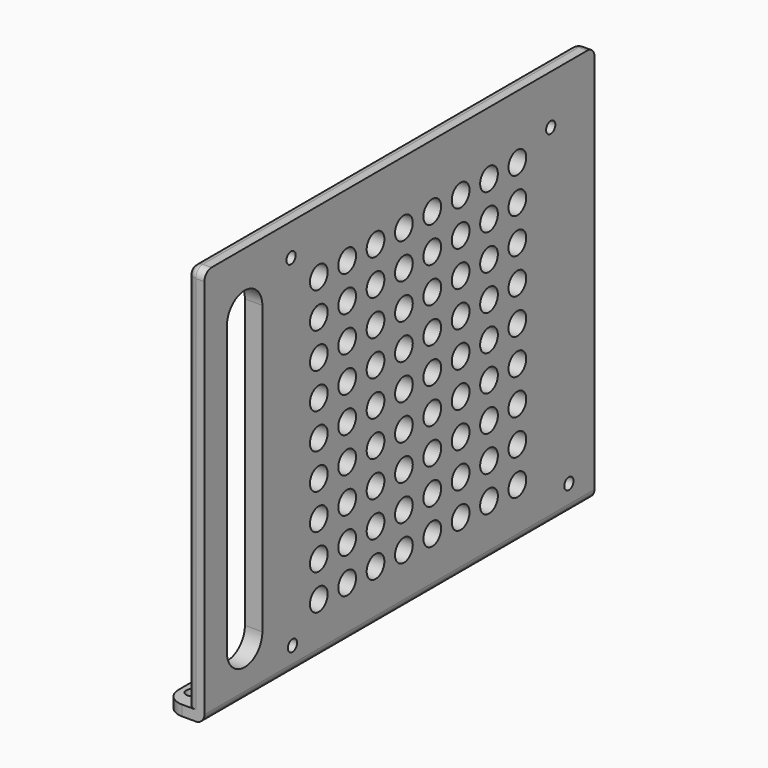
from build123d import *

# Parameters (mm, degrees)
F0_W     = 6.5
F0_H     = 139.7
F0_R     = 1.75
F1_DEPTH = 3
F0_W_2   = 5
F2_DEPTH = 114.3
F3_R     = 1.65
F3_R_2   = 3.175
F4_DEPTH = 25.4
F5_R     = 2.54
F6_R     = 5.08


with BuildPart() as f1:
    # F0 (on Top) → F1 (new body)
    with BuildSketch(Plane.XY):
        with Locations((3.25, 69.85)):
            Rectangle(F0_W, F0_H)
        with Locations((3.25, 5.9583112597)):
            Circle(F0_R, mode=Mode.SUBTRACT)
        with Locations((3.25, 82.1583112597)):
            Circle(F0_R, mode=Mode.SUBTRACT)
    extrude(amount=F1_DEPTH)

    # F0 (on Top) → F2 (join)
    with BuildSketch(Plane.XY):
        with Locations((9, 69.85)):
            Rectangle(F0_W_2, F0_H)
    extrude(amount=F2_DEPTH)

    # F3 (on face) → F4 (cut)
    with BuildSketch(Plane.YZ.offset(11.5)):
        with Locations((31.0318387245, 105.1548512529)):
            Circle(F3_R)
        with Locations((31.5296787245, 7.1532112529)):
            Circle(F3_R)
        with Locations((124.0288587245, 100.2551912529)):
            Circle(F3_R)
        with Locations((130.5287187245, 7.7551912529)):
            Circle(F3_R)
        with Locations((40.965847671, 96.2724089622)):
            Circle(F3_R_2)
        with Locations((40.965847671, 86.1124089622)):
            Circle(F3_R_2)
        with Locations((40.965847671, 75.9524089622)):
            Circle(F3_R_2)
        with Locations((40.965847671, 65.7924089622)):
            Circle(F3_R_2)
        with Locations((40.965847671, 55.6324089622)):
            Circle(F3_R_2)
        with Locations((40.965847671, 45.4724089622)):
            Circle(F3_R_2)
        with Locations((40.965847671, 35.3124089622)):
            Circle(F3_R_2)
        with Locations((40.965847671, 25.1524089622)):
            Circle(F3_R_2)
        with Locations((40.965847671, 14.9924089622)):
            Circle(F3_R_2)
        with Locations((51.125847671, 96.2724089622)):
            Circle(F3_R_2)
        with Locations((51.125847671, 86.1124089622)):
            Circle(F3_R_2)
        with Locations((51.125847671, 75.9524089622)):
            Circle(F3_R_2)
        with Locations((51.125847671, 65.7924089622)):
            Circle(F3_R_2)
        with Locations((51.125847671, 55.6324089622)):
            Circle(F3_R_2)
        with Locations((51.125847671, 45.4724089622)):
            Circle(F3_R_2)
        with Locations((51.125847671, 35.3124089622)):
            Circle(F3_R_2)
        with Locations((51.125847671, 25.1524089622)):
            Circle(F3_R_2)
        with Locations((51.125847671, 14.9924089622)):
            Circle(F3_R_2)
        with Locations((61.285847671, 96.2724089622)):
            Circle(F3_R_2)
        with Locations((61.285847671, 86.1124089622)):
            Circle(F3_R_2)
        with Locations((61.285847671, 75.9524089622)):
            Circle(F3_R_2)
        with Locations((61.285847671, 65.7924089622)):
            Circle(F3_R_2)
        with Locations((61.285847671, 55.6324089622)):
            Circle(F3_R_2)
        with Locations((61.285847671, 45.4724089622)):
            Circle(F3_R_2)
        with Locations((61.285847671, 35.3124089622)):
            Circle(F3_R_2)
        with Locations((61.285847671, 25.1524089622)):
            Circle(F3_R_2)
        with Locations((61.285847671, 14.9924089622)):
            Circle(F3_R_2)
        with Locations((71.445847671, 96.2724089622)):
            Circle(F3_R_2)
        with Locations((71.445847671, 86.1124089622)):
            Circle(F3_R_2)
        with Locations((71.445847671, 75.9524089622)):
            Circle(F3_R_2)
        with Locations((71.445847671, 65.7924089622)):
            Circle(F3_R_2)
        with Locations((71.445847671, 55.6324089622)):
            Circle(F3_R_2)
        with Locations((71.445847671, 45.4724089622)):
            Circle(F3_R_2)
        with Locations((71.445847671, 35.3124089622)):
            Circle(F3_R_2)
        with Locations((71.445847671, 25.1524089622)):
            Circle(F3_R_2)
        with Locations((71.445847671, 14.9924089622)):
            Circle(F3_R_2)
        with Locations((81.605847671, 96.2724089622)):
            Circle(F3_R_2)
        with Locations((81.605847671, 86.1124089622)):
            Circle(F3_R_2)
        with Locations((81.605847671, 75.9524089622)):
            Circle(F3_R_2)
        with Locations((81.605847671, 65.7924089622)):
            Circle(F3_R_2)
        with Locations((81.605847671, 55.6324089622)):
            Circle(F3_R_2)
        with Locations((81.605847671, 45.4724089622)):
            Circle(F3_R_2)
        with Locations((81.605847671, 35.3124089622)):
            Circle(F3_R_2)
        with Locations((81.605847671, 25.1524089622)):
            Circle(F3_R_2)
        with Locations((81.605847671, 14.9924089622)):
            Circle(F3_R_2)
        with Locations((91.765847671, 96.2724089622)):
            Circle(F3_R_2)
        with Locations((91.765847671, 86.1124089622)):
            Circle(F3_R_2)
        with Locations((91.765847671, 75.9524089622)):
            Circle(F3_R_2)
        with Locations((91.765847671, 65.7924089622)):
            Circle(F3_R_2)
        with Locations((91.765847671, 55.6324089622)):
            Circle(F3_R_2)
        with Locations((91.765847671, 45.4724089622)):
            Circle(F3_R_2)
        with Locations((91.765847671, 35.3124089622)):
            Circle(F3_R_2)
        with Locations((91.765847671, 25.1524089622)):
            Circle(F3_R_2)
        with Locations((91.765847671, 14.9924089622)):
            Circle(F3_R_2)
        with Locations((101.925847671, 96.2724089622)):
            Circle(F3_R_2)
        with Locations((101.925847671, 86.1124089622)):
            Circle(F3_R_2)
        with Locations((101.925847671, 75.9524089622)):
            Circle(F3_R_2)
        with Locations((101.925847671, 65.7924089622)):
            Circle(F3_R_2)
        with Locations((101.925847671, 55.6324089622)):
            Circle(F3_R_2)
        with Locations((101.925847671, 45.4724089622)):
            Circle(F3_R_2)
        with Locations((101.925847671, 35.3124089622)):
            Circle(F3_R_2)
        with Locations((101.925847671, 25.1524089622)):
            Circle(F3_R_2)
        with Locations((101.925847671, 14.9924089622)):
            Circle(F3_R_2)
        with Locations((112.085847671, 96.2724089622)):
            Circle(F3_R_2)
        with Locations((112.085847671, 86.1124089622)):
            Circle(F3_R_2)
        with Locations((112.085847671, 75.9524089622)):
            Circle(F3_R_2)
        with Locations((112.085847671, 65.7924089622)):
            Circle(F3_R_2)
        with Locations((112.085847671, 55.6324089622)):
            Circle(F3_R_2)
        with Locations((112.085847671, 45.4724089622)):
            Circle(F3_R_2)
        with Locations((112.085847671, 35.3124089622)):
            Circle(F3_R_2)
        with Locations((112.085847671, 25.1524089622)):
            Circle(F3_R_2)
        with Locations((112.085847671, 14.9924089622)):
            Circle(F3_R_2)
        with BuildLine():
            ThreePointArc((20.7464011222, 97.3240312529), (14.3964011222, 103.6740312529), (8.0464011222, 97.3240312529))
            Line((8.0464011222, 97.3240312529), (8.0464011222, 14.9840312529))
            ThreePointArc((8.0464011222, 14.9840312529), (14.3964011222, 8.6340312529), (20.7464011222, 14.9840312529))
            Line((20.7464011222, 14.9840312529), (20.7464011222, 97.3240312529))
        make_face()
    extrude(amount=-F4_DEPTH, mode=Mode.SUBTRACT)

    # F5 (call 1 of 2: OpenCascade refuses the feature's edges together)
    f5_edges = [f1.edges().sort_by_distance(p)[0] for p in [
        (11.5, 69.85, 0),
    ]]
    fillet(f5_edges, radius=F5_R)

    # F5#2 (call 2 of 2)
    f5_2_edges = [f1.edges().sort_by_distance(p)[0] for p in [
        (6.5, 69.85, 114.3),
        (6.5, 0, 58.65),
        (6.5, 139.7, 58.65),
        (9, 139.7, 114.3),
        (9, 0, 114.3),
    ]]
    fillet(f5_2_edges, radius=F5_R)

    # F6
    f6_edges = [f1.edges().sort_by_distance(p)[0] for p in [
        (0, 0, 1.5),
        (0, 139.7, 1.5),
    ]]
    fillet(f6_edges, radius=F6_R)


solid = f1.part
